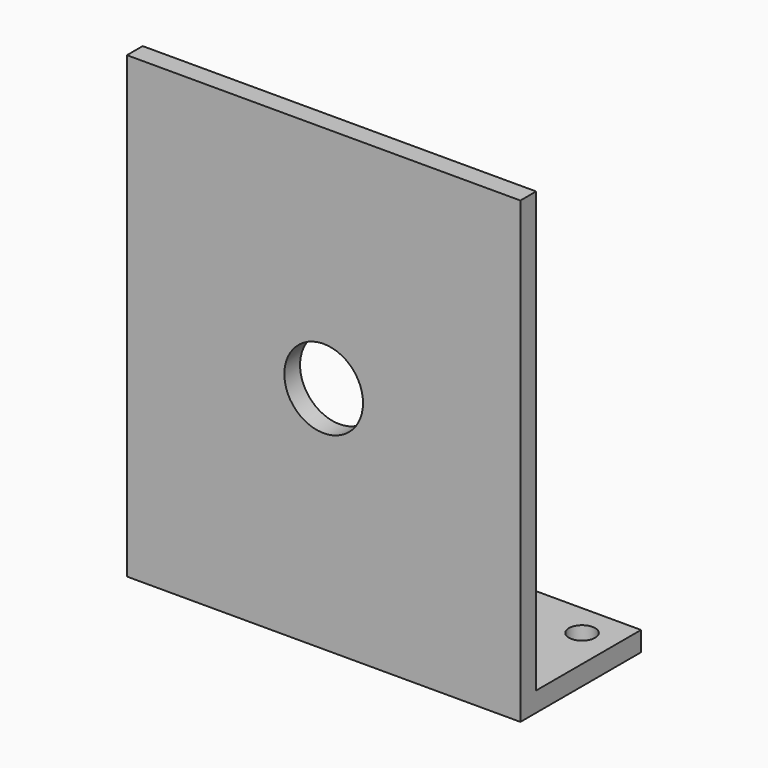
from build123d import *

# Parameters (mm, degrees)
F0_W     = 60
F0_H     = 70
F1_DEPTH = 3
F2_W     = 60
F2_H     = 3
F3_DEPTH = 20
F5_DEPTH = 3
F6_R     = 6
F7_DEPTH = 3


with BuildPart() as f1:
    # F0 (on Front) → F1 (new body)
    with BuildSketch(Plane.XZ):
        Rectangle(F0_W, F0_H)
    extrude(amount=F1_DEPTH)

    # F2 (on face) → F3 (join)
    with BuildSketch(Plane(origin=(0, 0, 0), x_dir=(-1, 0, 0), z_dir=(0, 1, 0))):
        with Locations((0, -33.5)):
            Rectangle(F2_W, F2_H)
    extrude(amount=F3_DEPTH)

    # F4 (on face) → F5 (cut)
    with BuildSketch(Plane.XY.offset(-32)):
        with BuildLine():
            ThreePointArc((26.997119, 15.00453), (22.99712, 15.006795), (26.997114, 15))
            ThreePointArc((26.997114, 15), (26.997118, 15.002265), (26.997119, 15.00453))
        make_face()
        with BuildLine():
            ThreePointArc((-23.012635, 15.008898), (-25.017084, 17.008893), (-27.012615, 15))
            ThreePointArc((-27.012615, 15), (-25.008186, 13.008903), (-23.012635, 15.008898))
        make_face()
    extrude(amount=-F5_DEPTH, mode=Mode.SUBTRACT)

    # F6 (on face) → F7 (cut)
    with BuildSketch(Plane.XZ.offset(3)):
        Circle(F6_R)
    extrude(amount=-F7_DEPTH, mode=Mode.SUBTRACT)


solid = f1.part
